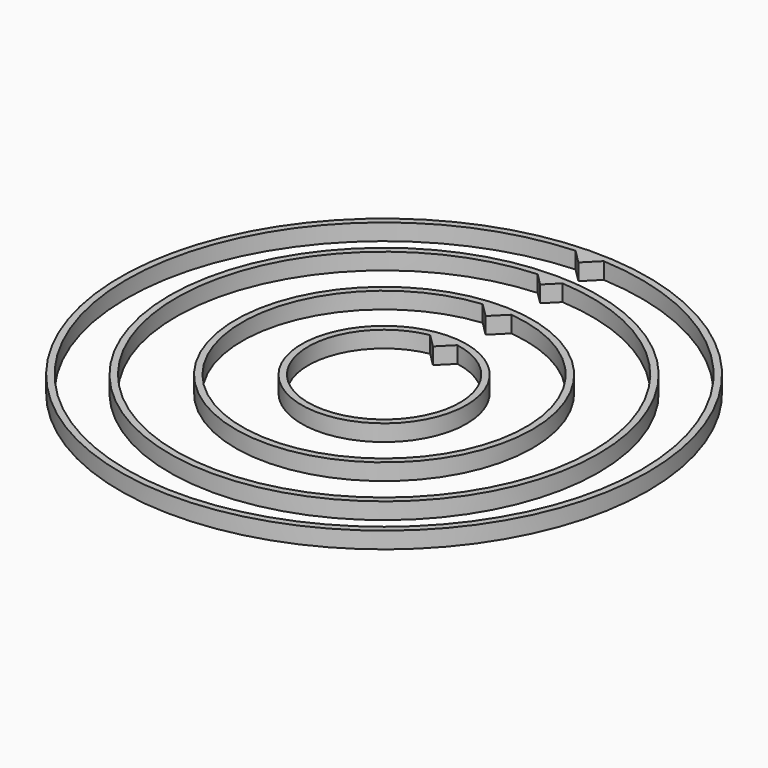
from build123d import *

# Parameters (mm, degrees)
F2_DEPTH = 5
F3_R     = 25
F3_R_2   = 23
F4_DEPTH = 5
F3_R_3   = 45
F3_R_4   = 43
F3_R_5   = 80
F3_R_6   = 78
F3_R_7   = 65
F3_R_8   = 63


with BuildPart() as f2:
    # F1 (on Top) → F2 (new body)
    with BuildSketch(Plane.XY):
        Polygon((0, 73.6079147614), (0, 78.6079147614), (-5.1205901883, 78.7285049497), align=None)
        Polygon((5, 78.6079147614), (0, 78.6079147614), (0, 73.6079147614), align=None)
    extrude(amount=F2_DEPTH)

    # F3 (on Top) → F4, piece 3 (join)
    with BuildSketch(Plane.XY):
        Circle(F3_R_5)
        Circle(F3_R_6, mode=Mode.SUBTRACT)
    extrude(amount=F4_DEPTH)


with BuildPart() as f2b:
    # F1 (on Top) → F2, piece 2 (new body)
    with BuildSketch(Plane.XY):
        Polygon((4.4469106392, 63.5754074351), (0, 64.1284967959), (0, 59.1284967959), align=None)
        Polygon((0, 59.1284967959), (0, 64.1284967959), (-4.4469106392, 63.5754074351), align=None)
    extrude(amount=F2_DEPTH)

    # F3 (on Top) → F4, piece 4 (join)
    with BuildSketch(Plane.XY):
        Circle(F3_R_7)
        Circle(F3_R_8, mode=Mode.SUBTRACT)
    extrude(amount=F4_DEPTH)


with BuildPart() as f2c:
    # F1 (on Top) → F2, piece 3 (new body)
    with BuildSketch(Plane.XY):
        Polygon((0, 38.445033133), (0, 43.445033133), (-5.3175765089, 43.7626096419), align=None)
        Polygon((5, 43.445033133), (0, 43.445033133), (0, 38.445033133), align=None)
    extrude(amount=F2_DEPTH)

    # F3 (on Top) → F4, piece 2 (join)
    with BuildSketch(Plane.XY):
        Circle(F3_R_3)
        Circle(F3_R_4, mode=Mode.SUBTRACT)
    extrude(amount=F4_DEPTH)


with BuildPart() as f2d:
    # F1 (on Top) → F2, piece 4 (new body)
    with BuildSketch(Plane.XY):
        Polygon((0, 18.5014363378), (0, 23.5014363378), (-5, 23.5014363378), align=None)
        Polygon((4.5980428482, 23.0994791861), (0, 23.5014363378), (0, 18.5014363378), align=None)
    extrude(amount=F2_DEPTH)

    # F3 (on Top) → F4 (join)
    with BuildSketch(Plane.XY):
        Circle(F3_R)
        Circle(F3_R_2, mode=Mode.SUBTRACT)
    extrude(amount=F4_DEPTH)


solid = Compound([f2.part, f2b.part, f2c.part, f2d.part])
